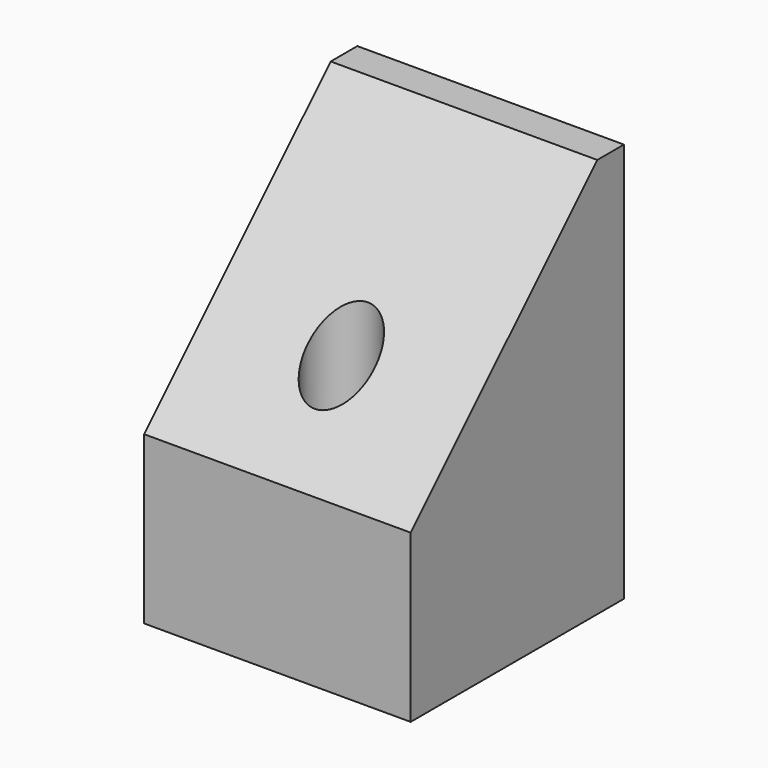
from build123d import *

# Parameters (mm, degrees)
F0_W           = 20
F0_H           = 20
F1_DEPTH       = 30
F2_SIZE        = 17.5
F4_D           = 5
F4_CSINK_D     = 9
F4_CSINK_ANGLE = 90


with BuildPart() as f1:
    # F0 (on Top) → F1 (new body)
    with BuildSketch(Plane.XY):
        with Locations((-4.093967, -2.481039)):
            Rectangle(F0_W, F0_H)
    extrude(amount=F1_DEPTH)

    # F2
    f2_edges = [f1.edges().sort_by_distance(p)[0] for p in [
        (-4.093967, -12.481039, 30),
    ]]
    chamfer(f2_edges, length=F2_SIZE)

    # F4 (through all)
    with Locations(Plane(origin=(0, 0, 0), x_dir=(1, 0, 0), z_dir=(0, 0, -1))):
        with Locations((-4.093967, 6.481039)):
            CounterSinkHole(F4_D / 2, F4_CSINK_D / 2, counter_sink_angle=F4_CSINK_ANGLE)


solid = f1.part
